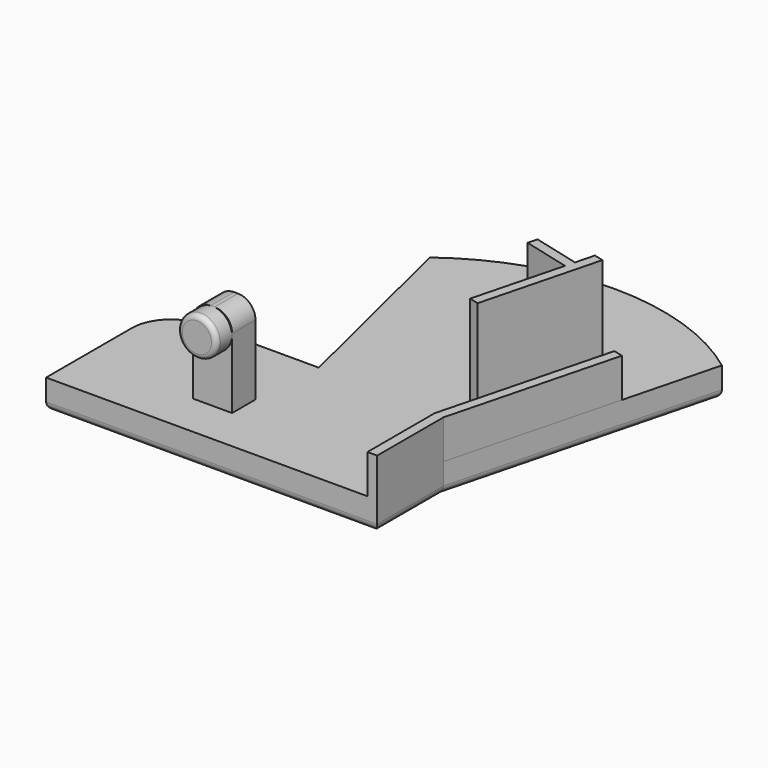
from build123d import *

# Parameters (mm, degrees)
PAD_DEPTH    = 3
PAD001_DEPTH = 13
SKETCH001_W  = 4
SKETCH001_H  = 3
PAD002_DEPTH = 12
PAD003_DEPTH = 7
SKETCH005_R  = 2
PAD004_DEPTH = 2
FILLET_R     = 1.8
FILLET001_R  = 0.5
FILLET002_R  = 0.8


with BuildPart() as part:
    # Sketch → Pad (new body)
    with BuildSketch(Plane.XY):
        with BuildLine():
            Line((0, 0), (34, 0))
            Line((34, 0), (34, 8.5))
            Line((34, 8.5), (41, 35.5))
            ThreePointArc((41, 35.5), (26, 40.5), (11, 35.5))
            Line((16, 15), (11, 35.5))
            Line((4, 15), (16, 15))
            ThreePointArc((4, 15), (1.171573, 13.828427), (0, 11))
            Line((0, 0), (0, 11))
        make_face()
    extrude(amount=PAD_DEPTH)

    # Sketch002 → Pad001 (join)
    with BuildSketch(Plane.XY):
        Polygon((30.957764, 16.688984), (34.094791, 28.788945), (33.126794, 29.039907), (32.62487, 27.103913), (27.784885, 28.358724), (27.533923, 27.390727), (32.373908, 26.135916), (29.989767, 16.939946), align=None)
    extrude(amount=PAD001_DEPTH)

    # Sketch001 → Pad002 (join)
    with BuildSketch(Plane.XY):
        with Locations((13.5, 6)):
            Rectangle(SKETCH001_W, SKETCH001_H)
    extrude(amount=PAD002_DEPTH)

    # Sketch003 → Pad003 (join)
    with BuildSketch(Plane.XY):
        Polygon((34, 0), (34, 8.5), (38.485316, 25.800504), (37.517319, 26.051466), (33, 8.627522), (33, 0), align=None)
    extrude(amount=PAD003_DEPTH)

    # Sketch005 (on Face19 of Pad003) → Pad004 (join)
    with BuildSketch(Plane.XZ.offset(-4.5)):
        with Locations((13.490876, 10.002978)):
            Circle(SKETCH005_R)
    extrude(amount=PAD004_DEPTH)

    # Fillet
    fillet_edges = [part.edges().sort_by_distance(p)[0] for p in [
        (11.5, 6, 12),
        (15.5, 6, 12),
    ]]
    fillet(fillet_edges, radius=FILLET_R)

    # Fillet001
    fillet001_edges = [part.edges().sort_by_distance(p)[0] for p in [
        (11.490876, 2.5, 10.002978),
    ]]
    fillet(fillet001_edges, radius=FILLET001_R)

    # Fillet002
    fillet002_edges = [part.edges().sort_by_distance(p)[0] for p in [
        (36.242658, 17.150252, 0),
        (34, 4.25, 0),
        (33.5, 0, 0),
        (16.5, 0, 0),
        (0, 5.5, 0),
        (1.171573, 13.828427, 0),
        (10, 15, 0),
        (13.5, 25.25, 0),
        (26, 40.5, 0),
        (39.742658, 30.650252, 0),
    ]]
    fillet(fillet002_edges, radius=FILLET002_R)


solid = part.part
